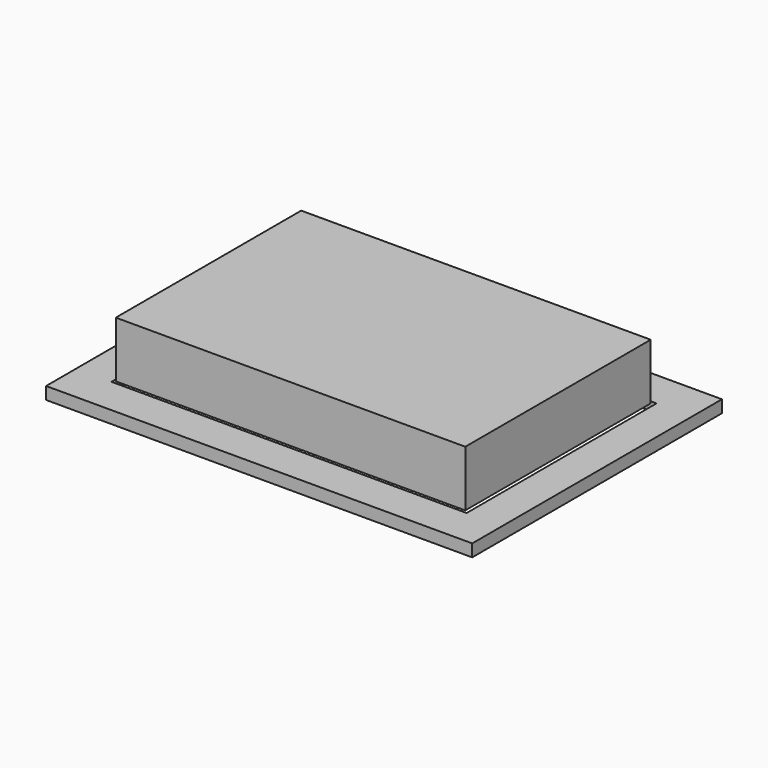
from build123d import *

# Parameters (mm, degrees)
F0_W     = 228
F0_H     = 167
F0_W_2   = 190
F0_H_2   = 127
F1_DEPTH = 6.6
F2_W     = 202
F2_H     = 153
F3_DEPTH = 2
F4_R     = 0.393392
F5_DEPTH = 2
F7_W     = 187
F7_H     = 124
F8_DEPTH = 30


with BuildPart() as f1:
    # F0 (on Top) → F1 (new body)
    with BuildSketch(Plane.XY):
        Rectangle(F0_W, F0_H)
        Rectangle(F0_W_2, F0_H_2, mode=Mode.SUBTRACT)
    extrude(amount=F1_DEPTH)

    # F2 (on face) → F3 (cut)
    with BuildSketch(Plane(origin=(0, 0, 0), x_dir=(1, 0, 0), z_dir=(0, 0, -1))):
        with Locations((0, -7)):
            Rectangle(F2_W, F2_H)
    extrude(amount=-F3_DEPTH, mode=Mode.SUBTRACT)

    # F4 (on face) → F5 (cut)
    with BuildSketch(Plane(origin=(0, 0, 2), x_dir=(1, 0, 0), z_dir=(0, 0, -1))):
        with Locations((85.6, -83.5)):
            Circle(F4_R)
    extrude(amount=-F5_DEPTH, mode=Mode.SUBTRACT)


with BuildPart() as f8:
    # F7 (on face) → F8 (new body)
    with BuildSketch(Plane.XY.offset(6.6)):
        with Locations((-0.398763, -0.011258)):
            Rectangle(F7_W, F7_H)
    extrude(amount=F8_DEPTH)


solid = Compound([f1.part, f8.part])
